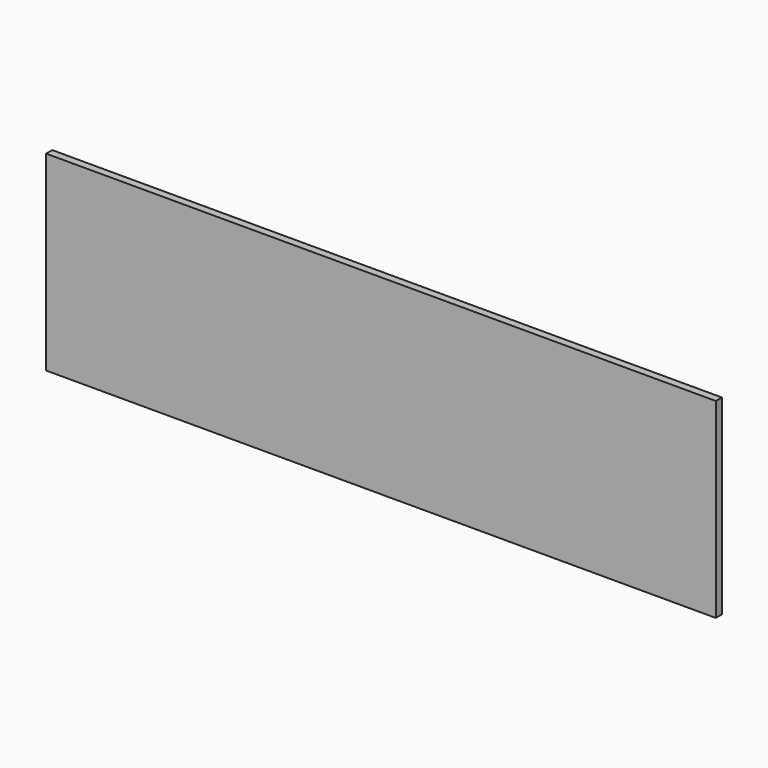
from build123d import *

# Parameters (mm, degrees)
SKETCH026_W             = 526
SKETCH026_H             = 150
PAD010_DEPTH            = 18
SKETCH027_W             = 12
SKETCH027_H             = 150
POCKET016_DEPTH         = 12
SKETCH031_W             = 526
SKETCH031_H             = 18
POCKET019_DEPTH         = 12
BODY009_PLACEMENT_ANGLE = 90


with BuildPart() as part:
    # Sketch026 → Pad010 (new body)
    with BuildSketch(Plane.XY):
        with Locations((0, 75)):
            Rectangle(SKETCH026_W, SKETCH026_H)
    extrude(amount=PAD010_DEPTH)

    # Sketch027 (on Face6 of Pad010) → Pocket016 (cut)
    with BuildSketch(Plane.XY.offset(18)):
        with Locations((-257, 75)):
            Rectangle(SKETCH027_W, SKETCH027_H)
    pocket016 = extrude(amount=-POCKET016_DEPTH, mode=Mode.SUBTRACT)

    # Mirrored007: Pocket016 across Sketch027 V_Axis
    add(pocket016.mirror(Plane(origin=(0, 0, 18), x_dir=(0, 0, 1), z_dir=(1, 0, 0))), mode=Mode.SUBTRACT)

    # Sketch031 (on Face6 of Mirrored007) → Pocket019 (cut)
    with BuildSketch(Plane.XY.offset(18)):
        with Locations((0, 9)):
            Rectangle(SKETCH031_W, SKETCH031_H)
    extrude(amount=-POCKET019_DEPTH, mode=Mode.SUBTRACT)


with BuildPart() as part_1:
    # Body009 placement: moved
    add(part.part.moved(Location((0, 0, 150))).rotate(Axis((0, 0, 150), (-1, 0, 0)), BODY009_PLACEMENT_ANGLE))


solid = part_1.part
